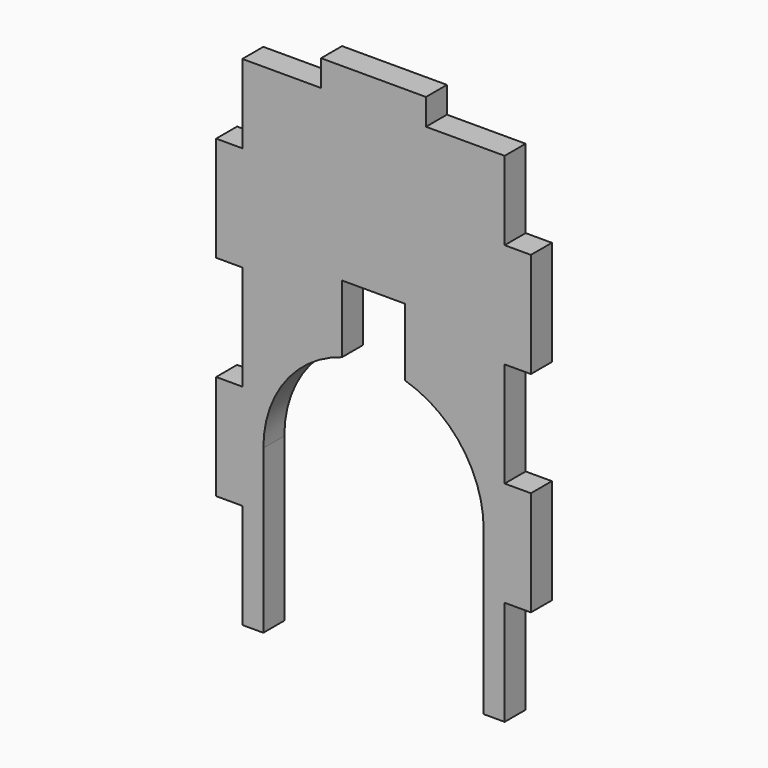
from build123d import *

# Parameters (mm, degrees)
F1_DEPTH = 5


with BuildPart() as f1:
    # F0 (on Front) → F1 (new body)
    with BuildSketch(Plane.XZ):
        with BuildLine():
            Line((25, 38.432408), (25, 53.432408))
            Line((25, 53.432408), (10, 53.432408))
            Line((10, 53.432408), (10, 58.432408))
            Line((10, 58.432408), (-10, 58.432408))
            Line((-10, 58.432408), (-10, 53.432408))
            Line((-10, 53.432408), (-25, 53.432408))
            Line((-25, 53.432408), (-25, 38.432408))
            Line((-25, 38.432408), (-30, 38.432408))
            Line((-30, 38.432408), (-30, 18.432408))
            Line((-30, 18.432408), (-25, 18.432408))
            Line((-25, 18.432408), (-25, -1.567592))
            Line((-25, -1.567592), (-30, -1.567592))
            Line((-30, -1.567592), (-30, -21.567592))
            Line((-30, -21.567592), (-25, -21.567592))
            Line((-25, -21.567592), (-25, -29.567592))
            Line((-25, -29.567592), (-25, -41.567592))
            Line((-25, -41.567592), (-21, -41.567592))
            Line((-21, -41.567592), (-21, -29.567592))
            Line((-21, -29.567592), (-21, -20.567592))
            Line((-21, -20.567592), (-21, -10.567592))
            ThreePointArc((-21, -10.567592), (-16.837458, 1.982309), (-6, 9.55702))
            Line((-6, 9.55702), (-6, 10.432408))
            Line((-6, 10.432408), (-6, 22.432408))
            Line((-6, 22.432408), (6, 22.432408))
            Line((6, 22.432408), (6, 10.432408))
            Line((6, 10.432408), (6, 9.55702))
            ThreePointArc((6, 9.55702), (16.837458, 1.982309), (21, -10.567592))
            Line((21, -10.567592), (21, -20.567592))
            Line((21, -20.567592), (21, -29.567592))
            Line((21, -29.567592), (21, -41.567592))
            Line((21, -41.567592), (25, -41.567592))
            Line((25, -41.567592), (25, -29.567592))
            Line((25, -29.567592), (25, -21.567592))
            Line((25, -21.567592), (30, -21.567592))
            Line((30, -21.567592), (30, -1.567592))
            Line((30, -1.567592), (25, -1.567592))
            Line((25, -1.567592), (25, 18.432408))
            Line((25, 18.432408), (30, 18.432408))
            Line((30, 18.432408), (30, 38.432408))
            Line((30, 38.432408), (25, 38.432408))
        make_face()
    extrude(amount=F1_DEPTH)


solid = f1.part
